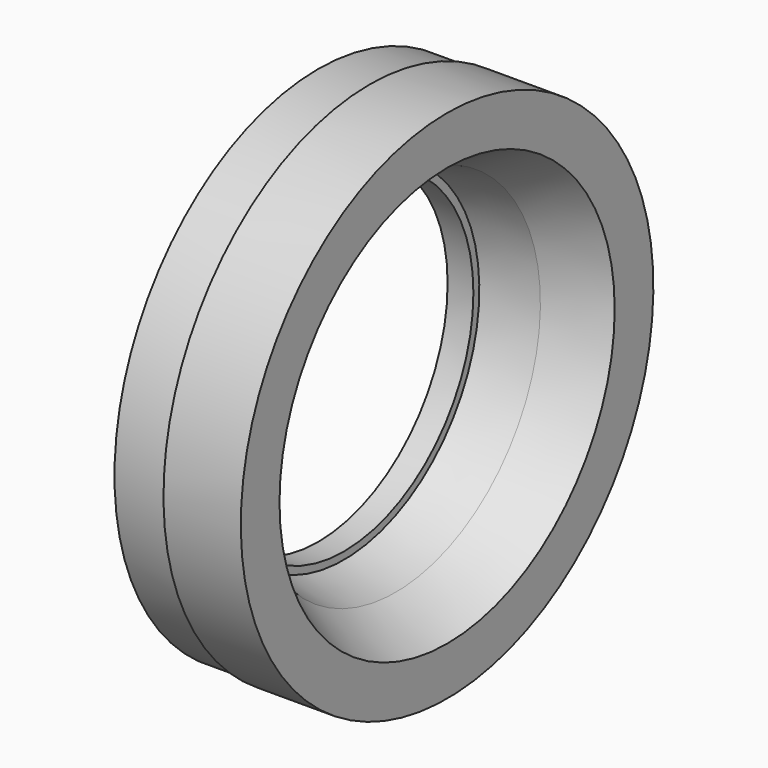
from build123d import *

# Parameters (mm, degrees)
F2_W = 8
F2_H = 0.5


with BuildPart() as f1:
    # F0 (on Front) → F1 (revolve)
    with BuildSketch(Plane.XZ):
        Polygon((20, 40), (0, 40), (0, 25.1), (4, 25.1), (4, 26.25), (12, 28.0972), (20, 32.5), align=None)
    revolve(axis=Axis((11.28888, 0, 0), (1, 0, 0)))

    # F2 (on Front) → F3 (revolve, cut)
    with BuildSketch(Plane.XZ):
        with Locations((4, 39.75)):
            Rectangle(F2_W, F2_H)
    revolve(axis=Axis((17.787712, 0, 0), (1, 0, 0)), mode=Mode.SUBTRACT)


solid = f1.part
